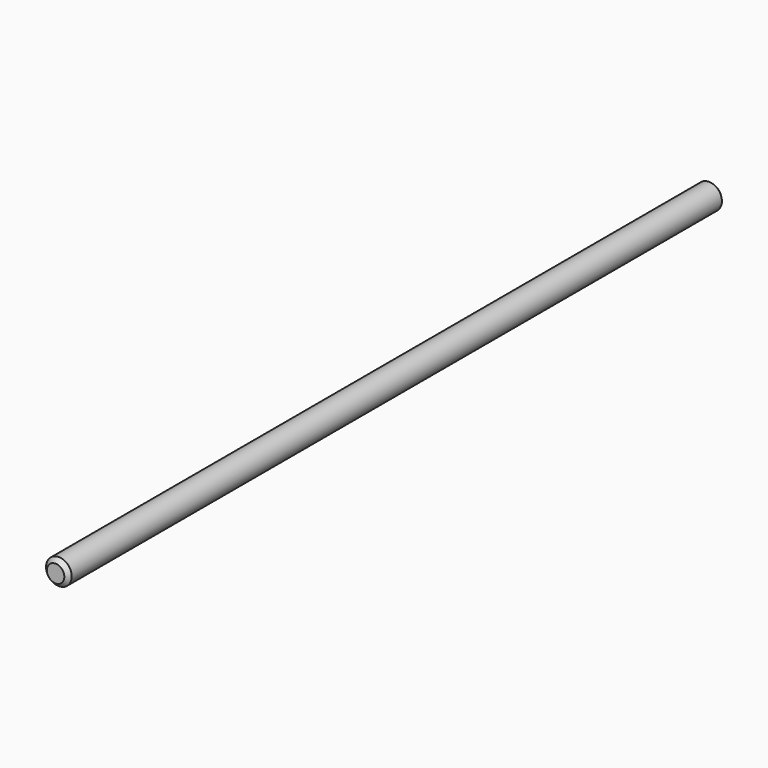
from build123d import *

# Parameters (mm, degrees)
F0_R     = 4.7625
F1_DEPTH = 152.4
F2_SIZE  = 1.524


with BuildPart() as f1:
    # F0 (on Front) → F1 (new body, symmetric)
    with BuildSketch(Plane.XZ):
        Circle(F0_R)
    extrude(amount=F1_DEPTH, both=True)

    # F2
    f2_edges = [f1.edges().sort_by_distance(p)[0] for p in [
        (-4.7625, -152.4, 0),
        (-4.7625, 152.4, 0),
        (4.7625, 0, 0),
    ]]
    chamfer(f2_edges, length=F2_SIZE)


solid = f1.part
